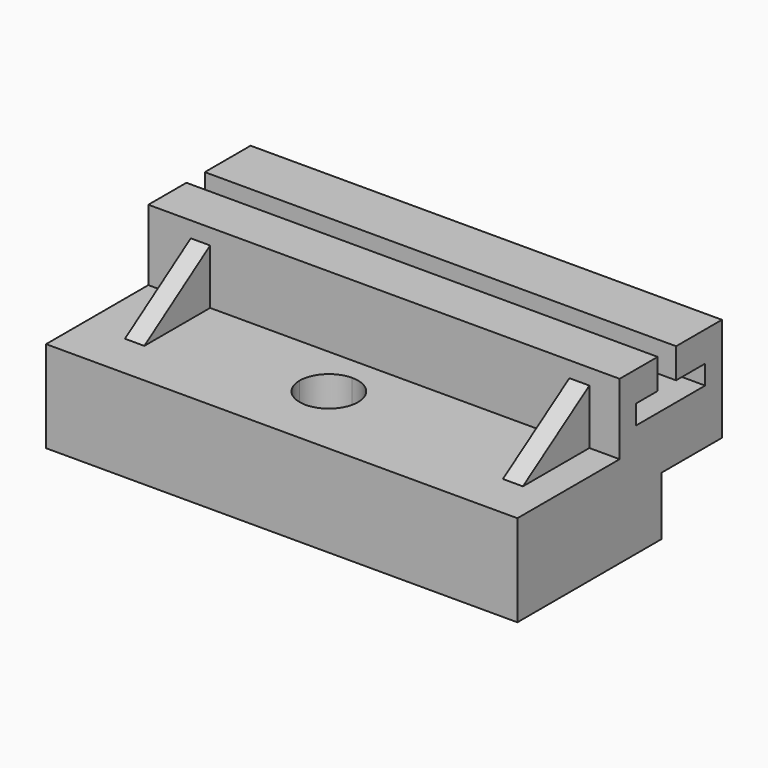
from build123d import *

# Parameters (mm, degrees)
F0_W      = 130.6354291737
F0_H      = 70.8588063717
F1_DEPTH  = 25.4
F2_W      = 21.0115239024
F2_H      = 16.2068661302
F3_DEPTH  = 139.7
F4_W      = 130.6354291737
F4_H      = 35.4294031858
F5_DEPTH  = 27.94
F7_DEPTH  = 157.48
F8_W      = 13.1810824387
F8_H      = 8.3256293517
F8_W_2    = 15.867670998
F9_DEPTH  = 147.32
F10_W     = 5.3731799126
F10_H     = 22.795913741
F11_DEPTH = 15.24
F13_DEPTH = 25.4
F14_W     = 5.5410936475
F14_H     = 23.0333786458
F15_DEPTH = 15.24
F17_DEPTH = 25.4
F19_DEPTH = 45.72


with BuildPart() as f1:
    # F0 (on Top) → F1 (new body)
    with BuildSketch(Plane.XY):
        with Locations((6.5485667437, -7.4720792472)):
            Rectangle(F0_W, F0_H)
    extrude(amount=F1_DEPTH)

    # F2 (on face) → F3 (cut)
    with BuildSketch(Plane.YZ.offset(71.8662813306)):
        with Locations((17.4515619874, 8.1034330651)):
            Rectangle(F2_W, F2_H)
    extrude(amount=-F3_DEPTH, mode=Mode.SUBTRACT)

    # F4 (on face) → F5 (join)
    with BuildSketch(Plane.XY.offset(25.4)):
        with Locations((6.5485667437, 10.2426223457)):
            Rectangle(F4_W, F4_H)
    extrude(amount=F5_DEPTH)

    # F6 (on face) → F7 (cut)
    with BuildSketch(Plane.YZ.offset(71.8662813306)):
        Polygon((12.0896529406, 53.34), (5.7090031914, 53.34), (5.7090031914, 36.6887412965), (-1.8470302457, 36.6887412965), (-1.8470302457, 31.315561384), (22.164363414, 31.315561384), (22.164363414, 36.6887412965), (12.0896529406, 36.6887412965), align=None)
    extrude(amount=-F7_DEPTH, mode=Mode.SUBTRACT)

    # F8 (on face) → F9 (cut)
    with BuildSketch(Plane.YZ.offset(71.8662813306)):
        with Locations((-0.8815380279, 49.1771853241)):
            Rectangle(F8_W, F8_H)
        with Locations((20.0234884396, 49.1771853241)):
            Rectangle(F8_W_2, F8_H)
    extrude(amount=-F9_DEPTH, mode=Mode.SUBTRACT)

    # F10 (on face) → F11 (join)
    with BuildSketch(Plane.XY.offset(25.4)):
        with Locations((-44.3287305534, -18.8700361177)):
            Rectangle(F10_W, F10_H)
    extrude(amount=F11_DEPTH)

    # F12 (on face) → F13 (cut)
    with BuildSketch(Plane(origin=(-47.0153205097, 0, 0), x_dir=(0, -1, 0), z_dir=(-1, 0, 0))):
        Polygon((30.2679929882, 40.64), (7.4720792472, 40.64), (30.2679929882, 25.4), align=None)
    extrude(amount=-F13_DEPTH, mode=Mode.SUBTRACT)

    # F14 (on face) → F15 (join)
    with BuildSketch(Plane.XY.offset(25.4)):
        with Locations((60.7001371682, -18.9887685701)):
            Rectangle(F14_W, F14_H)
    extrude(amount=F15_DEPTH)

    # F16 (on face) → F17 (cut)
    with BuildSketch(Plane(origin=(57.9295903444, 0, 0), x_dir=(0, -1, 0), z_dir=(-1, 0, 0))):
        Polygon((30.505457893, 40.64), (7.4720792472, 40.64), (30.505457893, 25.4), align=None)
    extrude(amount=-F17_DEPTH, mode=Mode.SUBTRACT)

    # F18 (on face) → F19 (cut)
    with BuildSketch(Plane.XY.offset(25.4)):
        with BuildLine():
            Line((-5.2471338319, -21.9567809254), (2.8545020614, -21.9567809254))
            Line((2.8545020614, -21.9567809254), (2.8545020614, -13.8551450321))
            ThreePointArc((2.8545020614, -13.8551450321), (-2.8742196175, -16.2280592466), (-5.2471338319, -21.9567809254))
        make_face()
        with BuildLine():
            Line((2.8545020614, -13.8551450321), (2.8545020614, -21.9567809254))
            Line((2.8545020614, -21.9567809254), (10.9561379547, -21.9567809254))
            ThreePointArc((10.9561379547, -21.9567809254), (8.5832237402, -16.2280592466), (2.8545020614, -13.8551450321))
        make_face()
        with BuildLine():
            Line((2.8545020614, -30.0584168187), (2.8545020614, -21.9567809254))
            Line((2.8545020614, -21.9567809254), (-5.2471338319, -21.9567809254))
            ThreePointArc((-5.2471338319, -21.9567809254), (-2.8742196175, -27.6855026042), (2.8545020614, -30.0584168187))
        make_face()
        with BuildLine():
            Line((10.9561379547, -21.9567809254), (2.8545020614, -21.9567809254))
            Line((2.8545020614, -21.9567809254), (2.8545020614, -30.0584168187))
            ThreePointArc((2.8545020614, -30.0584168187), (8.5832237402, -27.6855026042), (10.9561379547, -21.9567809254))
        make_face()
    extrude(amount=-F19_DEPTH, mode=Mode.SUBTRACT)


solid = f1.part
